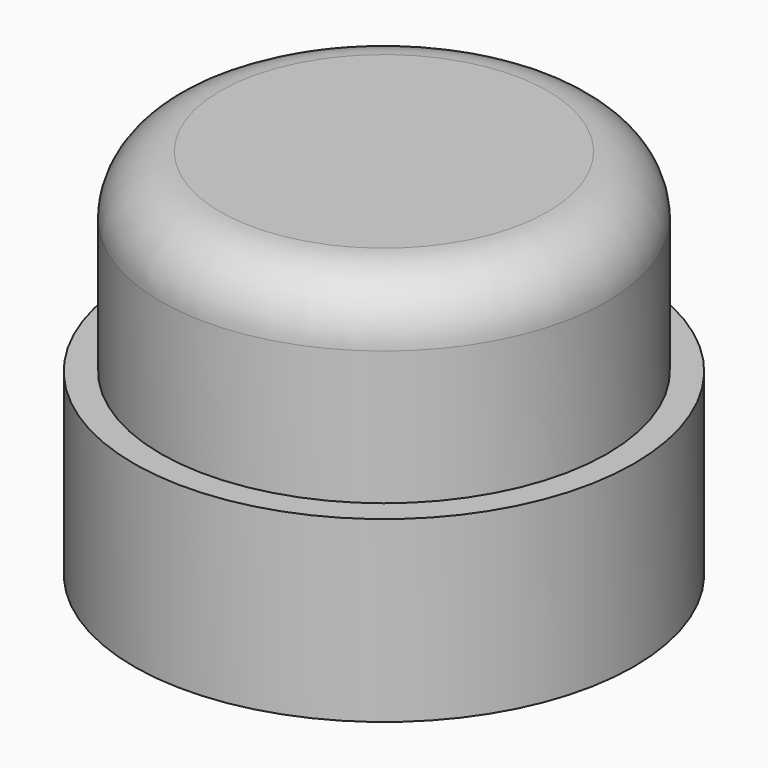
from build123d import *

# Parameters (mm, degrees)
SKETCH_R     = 4.2
PAD_DEPTH    = 3
SKETCH001_R  = 3.75
PAD001_DEPTH = 3.25
FILLET_R     = 1


with BuildPart() as part:
    # Sketch → Pad (new body)
    with BuildSketch(Plane.XY):
        Circle(SKETCH_R)
    extrude(amount=PAD_DEPTH)

    # Sketch001 (on Face3 of Pad) → Pad001 (join)
    with BuildSketch(Plane.XY.offset(3)):
        Circle(SKETCH001_R)
    extrude(amount=PAD001_DEPTH)

    # Fillet
    fillet_edges = [part.edges().sort_by_distance(p)[0] for p in [
        (-3.75, 0, 6.25),
    ]]
    fillet(fillet_edges, radius=FILLET_R)


solid = part.part
